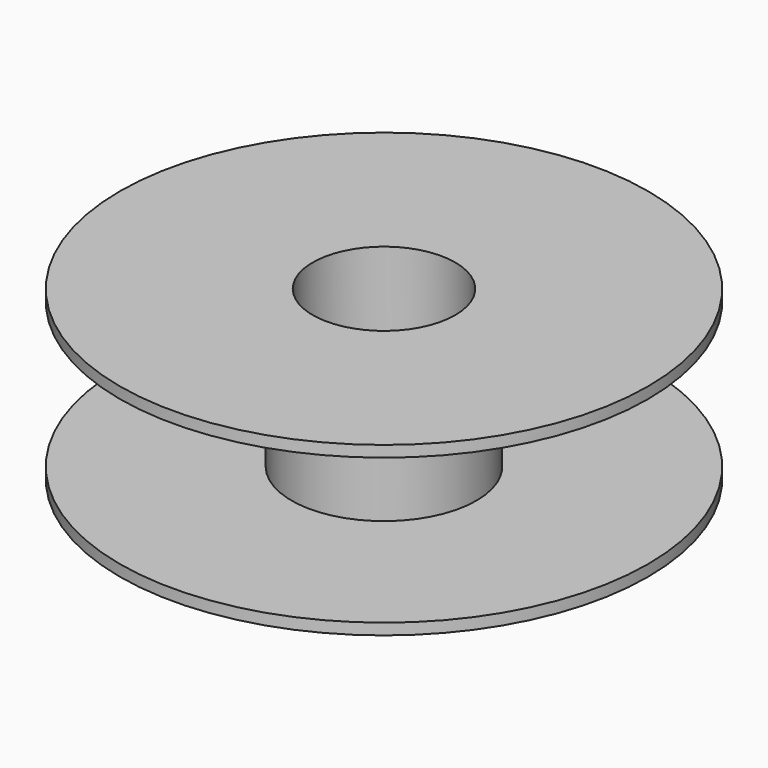
from build123d import *

# Parameters (mm, degrees)
F0_R          = 100.0125
F1_DEPTH      = 31.75
F2_R          = 125
F2_R_2        = 35
F3_DEPTH      = 27.5
F4_R          = 26.9875
F5_DEPTH      = 31.751
F5_DEPTH_BACK = 31.751


with BuildPart() as f1:
    # F0 (on Top) → F1 (new body, symmetric)
    with BuildSketch(Plane.XY):
        Circle(F0_R)
    extrude(amount=F1_DEPTH, both=True)

    # F2 (on Top) → F3 (cut, symmetric)
    with BuildSketch(Plane.XY):
        Circle(F2_R)
        Circle(F2_R_2, mode=Mode.SUBTRACT)
    extrude(amount=F3_DEPTH, both=True, mode=Mode.SUBTRACT)

    # F4 (on Top) → F5 (cut, two sides)
    with BuildSketch(Plane.XY) as f5_sk:
        Circle(F4_R)
    extrude(amount=-F5_DEPTH, mode=Mode.SUBTRACT)
    extrude(f5_sk.sketch, amount=F5_DEPTH_BACK, mode=Mode.SUBTRACT)


solid = f1.part
